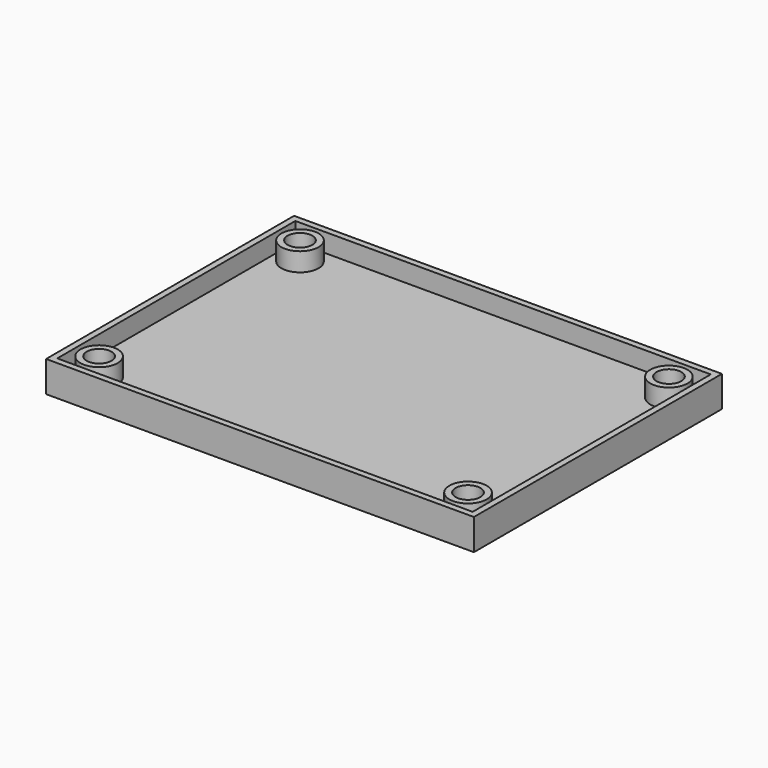
from build123d import *

# Parameters (mm, degrees)
F0_W     = 67
F0_H     = 48
F0_R     = 3
F1_DEPTH = 2
F0_R_2   = 2
F2_DEPTH = 5
F0_W_2   = 69
F0_H_2   = 50
F3_DEPTH = 5
F4_SIZE  = 2


with BuildPart() as f1:
    # F0 (on Top) → F1 (new body)
    with BuildSketch(Plane.XY):
        Rectangle(F0_W, F0_H)
        with Locations((-29.75, -20.25)):
            Circle(F0_R, mode=Mode.SUBTRACT)
        with Locations((29.75, -20.25)):
            Circle(F0_R, mode=Mode.SUBTRACT)
        with Locations((-29.75, 20.25)):
            Circle(F0_R, mode=Mode.SUBTRACT)
        with Locations((29.75, 20.25)):
            Circle(F0_R, mode=Mode.SUBTRACT)
    extrude(amount=F1_DEPTH)

    # F0 (on Top) → F2 (join)
    with BuildSketch(Plane.XY):
        with Locations((-29.75, 20.25)):
            Circle(F0_R)
        with Locations((-29.75, 20.25)):
            Circle(F0_R_2, mode=Mode.SUBTRACT)
        with Locations((29.75, 20.25)):
            Circle(F0_R)
        with Locations((29.75, 20.25)):
            Circle(F0_R_2, mode=Mode.SUBTRACT)
        with Locations((29.75, -20.25)):
            Circle(F0_R)
        with Locations((29.75, -20.25)):
            Circle(F0_R_2, mode=Mode.SUBTRACT)
        with Locations((-29.75, -20.25)):
            Circle(F0_R)
        with Locations((-29.75, -20.25)):
            Circle(F0_R_2, mode=Mode.SUBTRACT)
    extrude(amount=F2_DEPTH)

    # F0 (on Top) → F3 (join)
    with BuildSketch(Plane.XY):
        Rectangle(F0_W_2, F0_H_2)
        Rectangle(F0_W, F0_H, mode=Mode.SUBTRACT)
    extrude(amount=F3_DEPTH)

    # F4
    f4_edges = [f1.edges().sort_by_distance(p)[0] for p in [
        (27.75, -20.25, 0),
        (27.75, 20.25, 0),
        (-31.75, 20.25, 0),
        (-31.75, -20.25, 0),
    ]]
    chamfer(f4_edges, length=F4_SIZE)


solid = f1.part
